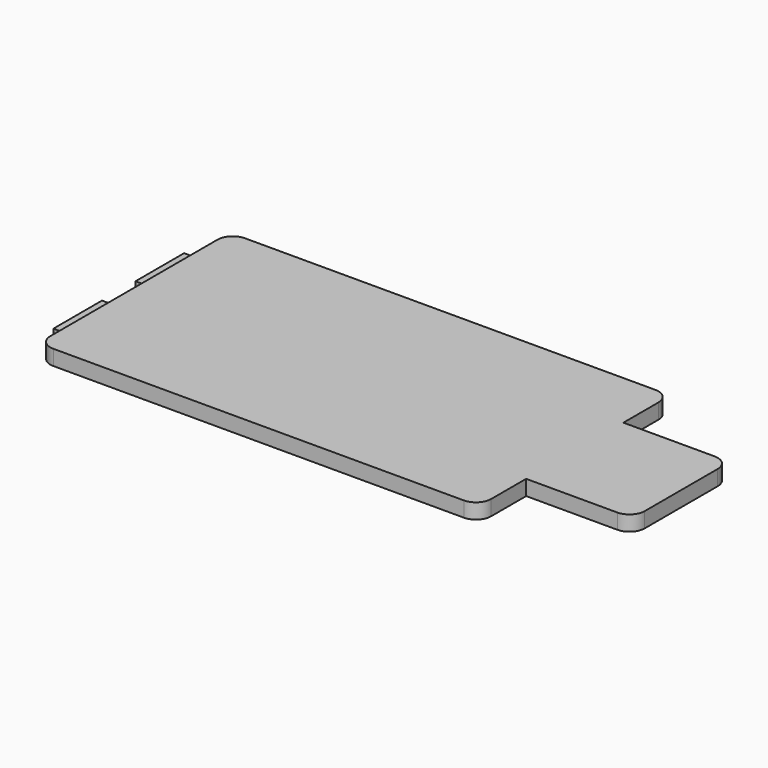
from build123d import *

# Parameters (mm, degrees)
F0_W     = 14
F0_H     = 16
F1_DEPTH = 2
F0_W_2   = 2
F0_H_2   = 8
F2_DEPTH = 1
F3_R     = 2


with BuildPart() as f1:
    # F0 (on Top) → F1 (new body)
    with BuildSketch(Plane.XY):
        Polygon((-47.824564, -15.75), (10.175436, -15.75), (10.175436, -8), (-3.824564, -8), (-3.824564, 8), (10.175436, 8), (10.175436, 15.75), (-47.824564, 15.75), (-47.824564, 10.75), (-47.824564, 2.75), (-47.824564, -2.75), (-47.824564, -10.75), align=None)
        with Locations((3.175436, 0)):
            Rectangle(F0_W, F0_H)
        with Locations((17.175436, 0)):
            Rectangle(F0_W, F0_H)
    extrude(amount=F1_DEPTH)

    # F0 (on Top) → F2 (join)
    with BuildSketch(Plane.XY):
        with Locations((-48.824564, 6.75)):
            Rectangle(F0_W_2, F0_H_2)
        with Locations((-48.824564, -6.75)):
            Rectangle(F0_W_2, F0_H_2)
    extrude(amount=F2_DEPTH)

    # F3
    f3_edges = [f1.edges().sort_by_distance(p)[0] for p in [
        (10.175436, 15.75, 1),
        (24.175436, 8, 1),
        (24.175436, -8, 1),
        (10.175436, -15.75, 1),
        (-47.824564, -15.75, 1),
        (-47.824564, 15.75, 1),
    ]]
    fillet(f3_edges, radius=F3_R)


solid = f1.part
